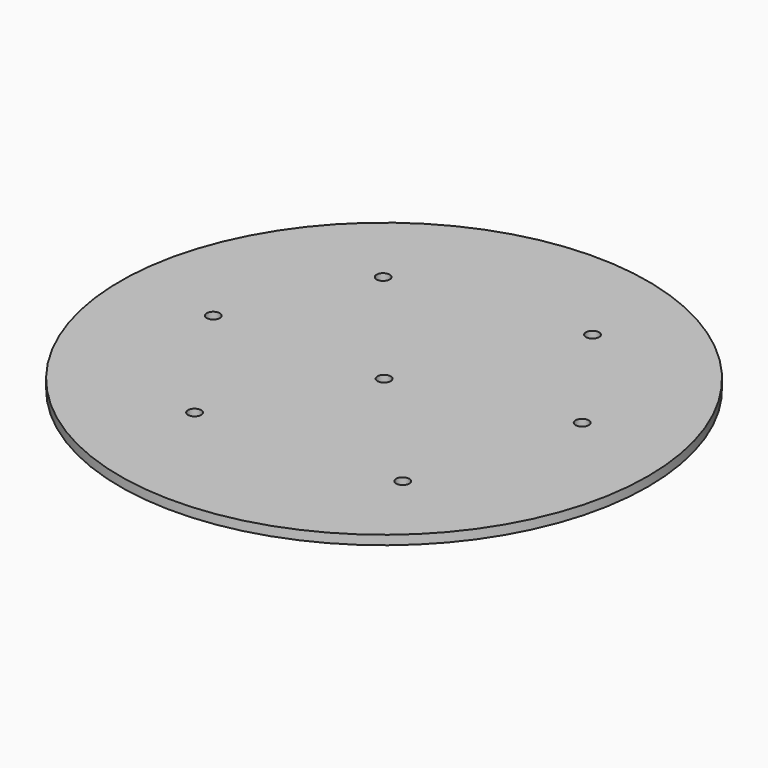
from build123d import *

# Parameters (mm, degrees)
F0_R     = 20
F1_DEPTH = 0.7
F2_R     = 0.5
F3_DEPTH = 0.7


with BuildPart() as f1:
    # F0 (on Top) → F1 (new body)
    with BuildSketch(Plane.XY):
        Circle(F0_R)
    extrude(amount=F1_DEPTH)

    # F2 (on face) → F3 (cut)
    with BuildSketch(Plane.XY.offset(0.7)):
        with Locations((-12.942992, 0)):
            Circle(F2_R)
        with Locations((12.675214, 2.915508)):
            Circle(F2_R)
        with Locations((9.06239, -9.565156)):
            Circle(F2_R)
        Circle(F2_R)
        with Locations((-8.180633, 10.141156)):
            Circle(F2_R)
        with Locations((-6.045783, -10.386252)):
            Circle(F2_R)
        with Locations((6.106443, 12.111788)):
            Circle(F2_R)
    extrude(amount=-F3_DEPTH, mode=Mode.SUBTRACT)


solid = f1.part
